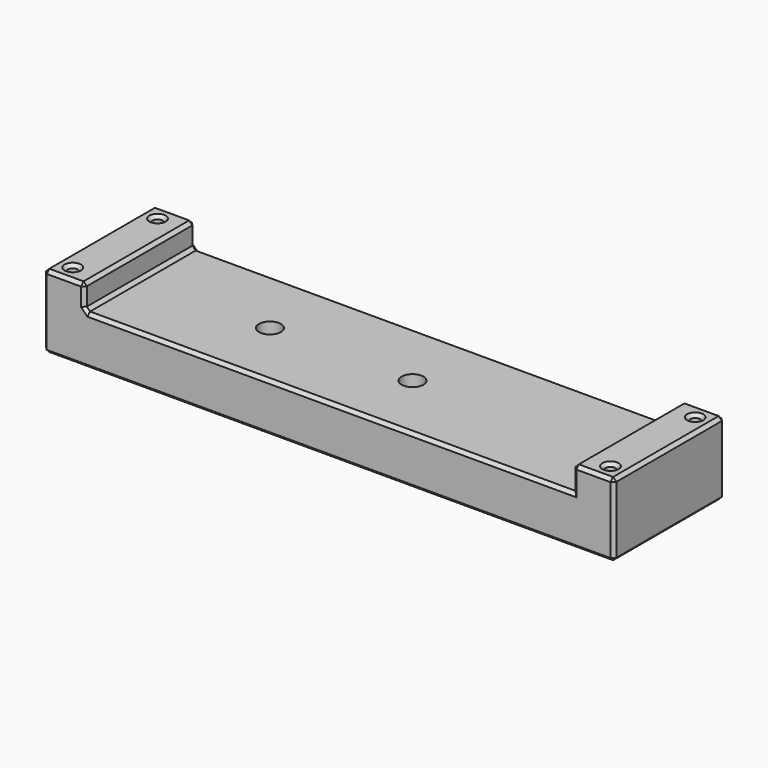
from build123d import *

# Parameters (mm, degrees)
SKETCH_W        = 70
SKETCH_H        = 17
PAD_DEPTH       = 6
SKETCH001_W     = 5
SKETCH001_H     = 17
PAD001_DEPTH    = 3
SKETCH002_R     = 0.6
POCKET_DEPTH    = 4
SKETCH003_R     = 1.35
POCKET001_DEPTH = 9.001
CHAMFER_SIZE    = 0.4


with BuildPart() as part:
    # Sketch (on XY_Plane of Origin) → Pad (new body)
    with BuildSketch(Plane.XY):
        Rectangle(SKETCH_W, SKETCH_H)
    extrude(amount=PAD_DEPTH)

    # Sketch001 (on Face6 of Pad) → Pad001 (join)
    with BuildSketch(Plane.XY.offset(6)):
        with Locations((-32.5, 0)):
            Rectangle(SKETCH001_W, SKETCH001_H)
    extrude(amount=PAD001_DEPTH)

    # Sketch002 (on Face5 of Pad001) → Pocket (cut)
    with BuildSketch(Plane.XY.offset(9)):
        with Locations((-33, 6.5)):
            Circle(SKETCH002_R)
        with Locations((-33, -6.5)):
            Circle(SKETCH002_R)
    extrude(amount=-POCKET_DEPTH, mode=Mode.SUBTRACT)

    # Mirrored: part across YZ


with BuildPart() as part_1:
    add(part.part)
    add(part.part.mirror(Plane.YZ))

    # Sketch003 (on Face1 of Mirrored) → Pocket001 (cut, through all)
    with BuildSketch(Plane(origin=(0, 0, 0), x_dir=(1, 0, 0), z_dir=(0, 0, -1))):
        with Locations((-14, 0)):
            Circle(SKETCH003_R)
        with Locations((3.5, 0)):
            Circle(SKETCH003_R)
    extrude(amount=-POCKET001_DEPTH, mode=Mode.SUBTRACT)

    # Chamfer
    chamfer_edges = [part_1.edges().sort_by_distance(p)[0] for p in [
        (0, -8.5, 6),
        (-30, -8.5, 7.5),
        (-32.5, -8.5, 9),
        (-30, 0, 9),
        (-30, 0, 6),
        (-35, -8.5, 4.5),
        (0, -8.5, 0),
        (-35, 0, 9),
        (-32.5, 8.5, 9),
        (0, 8.5, 6),
        (-30, 8.5, 7.5),
        (32.5, -8.5, 9),
        (30, 0, 9),
        (30, -8.5, 7.5),
        (35, -8.5, 4.5),
        (35, 0, 9),
        (35, 0, 0),
        (35, 8.5, 4.5),
        (32.5, 8.5, 9),
        (33.6, 6.5, 9),
        (33.6, -6.5, 9),
        (-33.6, 6.5, 9),
        (-33.6, -6.5, 9),
        (-35, 8.5, 4.5),
        (0, 8.5, 0),
        (-35, 0, 0),
        (-15.35, 0, 0),
        (2.15, 0, 0),
    ]]
    chamfer(chamfer_edges, length=CHAMFER_SIZE)


solid = part_1.part
